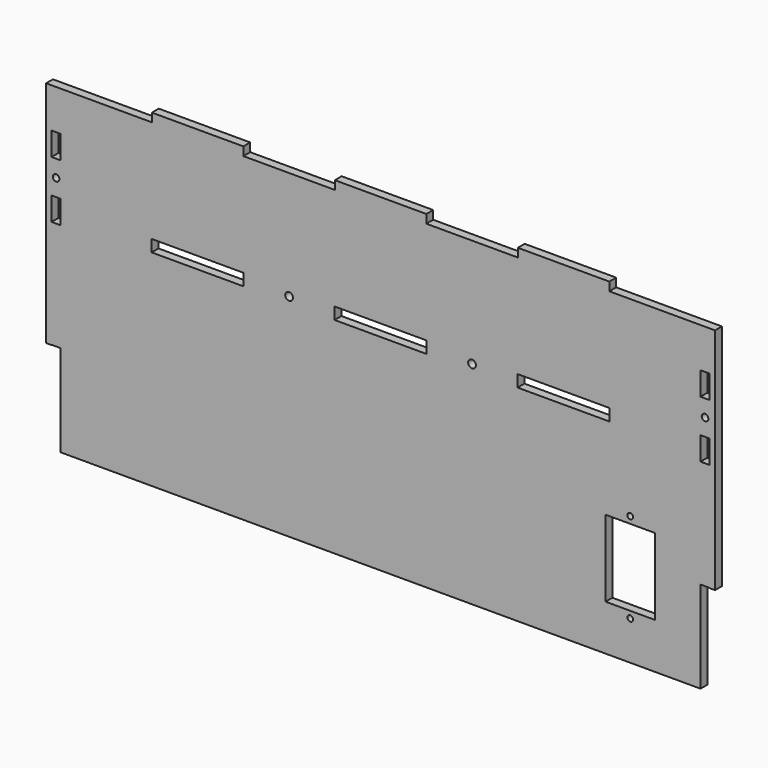
from build123d import *

# Parameters (mm, degrees)
F0_R     = 1.5875
F0_W     = 27.5
F0_H     = 42.5
F0_R_2   = 1.8415
F0_W_2   = 51.054
F0_H_2   = 6.604
F0_W_3   = 50.8
F0_H_3   = 4.7625
F1_DEPTH = 4.7625
F2_D     = 4.318
F2_DEPTH = 11.9126
F2_TIP   = 1.2972580765


with BuildPart() as f1:
    # F0 (on Front) → F1 (new body)
    with BuildSketch(Plane.XZ):
        Polygon((-127, 88.9), (-182.5625, 88.9), (-182.5625, 66.802), (-177.673, 66.802), (-177.673, 53.848), (-182.5625, 53.848), (-182.5625, 35.052), (-177.673, 35.052), (-177.673, 22.098), (-182.5625, 22.098), (-182.5625, -37.973), (-177.673, -37.973), (-177.673, -88.9), (177.673, -88.9), (177.673, -37.973), (182.5625, -37.973), (182.5625, 22.098), (177.673, 22.098), (177.673, 35.052), (182.5625, 35.052), (182.5625, 53.848), (177.673, 53.848), (177.673, 66.802), (182.5625, 66.802), (182.5625, 88.9), (127, 88.9), (76.2, 88.9), (25.4, 88.9), (-25.4, 88.9), (-76.2, 88.9), align=None)
        with Locations((138.65, -67.25)):
            Circle(F0_R, mode=Mode.SUBTRACT)
        with Locations((138.65, -42.25)):
            Rectangle(F0_W, F0_H, mode=Mode.SUBTRACT)
        with Locations((138.65, -17.25)):
            Circle(F0_R, mode=Mode.SUBTRACT)
        with Locations((-180.18125, 44.45)):
            Circle(F0_R_2, mode=Mode.SUBTRACT)
        with Locations((-101.6, 28.575)):
            Rectangle(F0_W_2, F0_H_2, mode=Mode.SUBTRACT)
        with Locations((0, 28.575)):
            Rectangle(F0_W_2, F0_H_2, mode=Mode.SUBTRACT)
        with Locations((101.6, 28.575)):
            Rectangle(F0_W_2, F0_H_2, mode=Mode.SUBTRACT)
        with Locations((180.18125, 44.45)):
            Circle(F0_R_2, mode=Mode.SUBTRACT)
        with Locations((-101.6, 91.28125)):
            Rectangle(F0_W_3, F0_H_3)
        with Locations((0, 91.28125)):
            Rectangle(F0_W_3, F0_H_3)
        with Locations((101.6, 91.28125)):
            Rectangle(F0_W_3, F0_H_3)
        Polygon((-182.5625, 66.802), (-182.5625, 88.9), (-185.7375, 88.9), (-185.7375, -38.1), (-182.6895, -38.1), (-182.6895, -37.973), (-182.5625, -37.973), (-182.5625, 22.098), (-182.6895, 22.098), (-182.6895, 35.052), (-182.5625, 35.052), (-182.5625, 53.848), (-182.6895, 53.848), (-182.6895, 66.802), align=None)
        Polygon((185.7375, 88.9), (182.5625, 88.9), (182.5625, 66.802), (182.6895, 66.802), (182.6895, 53.848), (182.5625, 53.848), (182.5625, 35.052), (182.6895, 35.052), (182.6895, 22.098), (182.5625, 22.098), (182.5625, -37.973), (182.6895, -37.973), (182.6895, -38.1), (185.7375, -38.1), align=None)
    extrude(amount=F1_DEPTH)

    # F2
    with Locations(Plane(origin=(0, 0, 0), x_dir=(1, 0, 0), z_dir=(0, 1, 0))):
        with Locations((-50.8, -28.575), (50.8, -28.575)):
            Hole(F2_D / 2, depth=F2_DEPTH)
            with Locations((0, 0, -(F2_DEPTH + F2_TIP / 2))):  # 118° drill point
                Cone(0, F2_D / 2, F2_TIP, mode=Mode.SUBTRACT)


solid = f1.part
